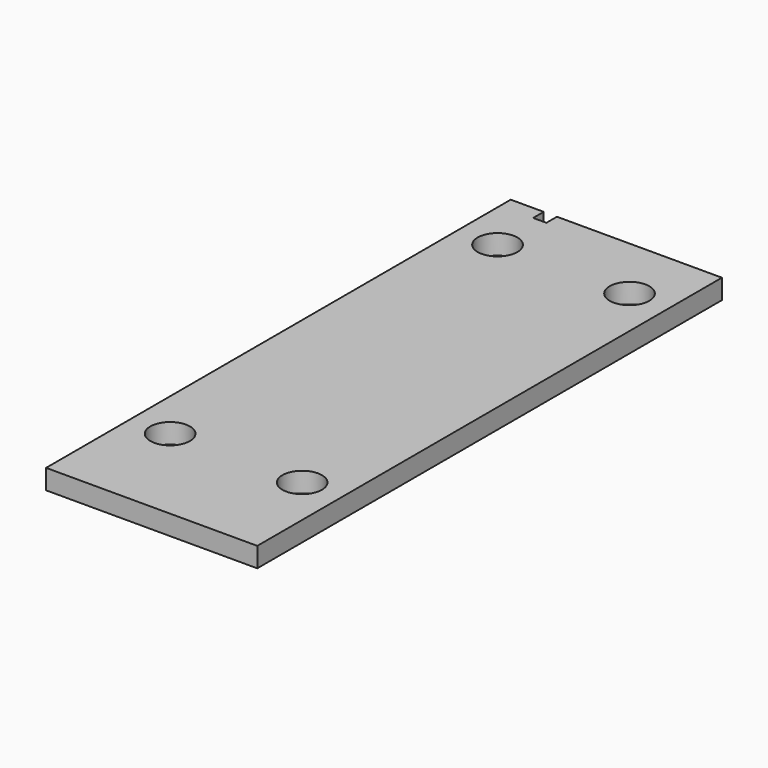
from build123d import *

# Parameters (mm, degrees)
F0_W     = 203.2
F0_H     = 19.05
F1_DEPTH = 558.8
F2_R     = 19.05
F2_W     = 12.7
F2_H     = 12.7
F3_DEPTH = 25.4


with BuildPart() as f1:
    # F0 (on Front) → F1 (new body)
    with BuildSketch(Plane.XZ):
        Rectangle(F0_W, F0_H)
    extrude(amount=F1_DEPTH)

    # F2 (on face) → F3 (cut)
    with BuildSketch(Plane.XY.offset(9.525)):
        with Locations((-63.5, -63.5)):
            Circle(F2_R)
        with Locations((63.5, -63.5)):
            Circle(F2_R)
        with Locations((-63.5, -457.2)):
            Circle(F2_R)
        with Locations((63.5, -457.2)):
            Circle(F2_R)
        with Locations((-63.5, -6.35)):
            Rectangle(F2_W, F2_H)
    extrude(amount=-F3_DEPTH, mode=Mode.SUBTRACT)


solid = f1.part
